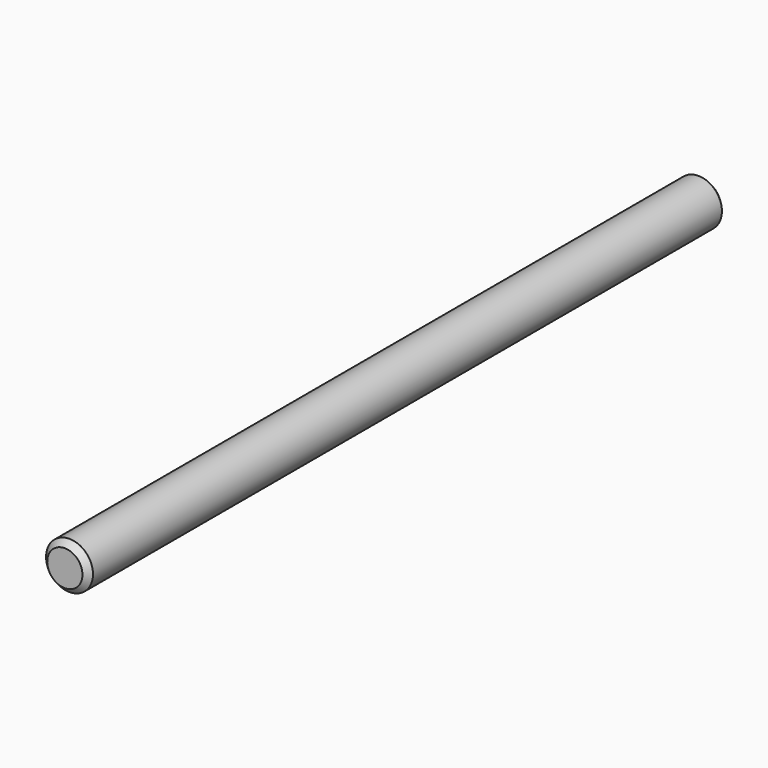
from build123d import *

# Parameters (mm, degrees)
SKETCH_R  = 2.5
PAD_DEPTH = 42.5


with BuildPart() as part:
    # Sketch → Pad (new body, symmetric)
    with BuildSketch(Plane.XZ):
        Circle(SKETCH_R)
    extrude(amount=PAD_DEPTH, both=True)

    # Sketch001 → Groove (revolve, cut)
    with BuildSketch(Plane.YZ):
        Polygon((-42.5, 4.5), (42.5, 4.5), (42.5, 1.875), (41.875, 2.5), (-41.875, 2.5), (-42.5, 1.875), align=None)
    revolve(axis=Axis((0, 0, 0), (0, 1, 0)), mode=Mode.SUBTRACT)


solid = part.part
